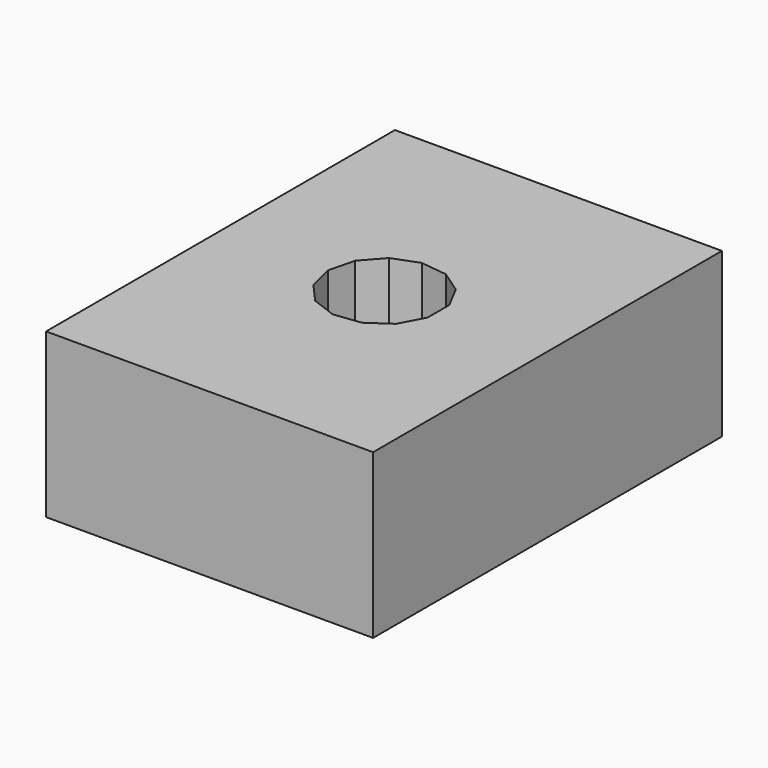
from build123d import *

# Parameters (mm, degrees)
F0_W     = 19.05
F0_H     = 25.4
F1_DEPTH = 9.525


with BuildPart() as f1:
    # F0 (on Top) → F1 (new body)
    with BuildSketch(Plane.XY):
        Rectangle(F0_W, F0_H)
        Polygon((2.447646, 2.168425), (3.175, 0.782567), (3.175, -0.782567), (2.447646, -2.168425), (1.159565, -3.057523), (-0.394157, -3.246179), (-1.857584, -2.691174), (-2.89546, -1.519654), (-3.270021, 0), (-2.89546, 1.519654), (-1.857584, 2.691174), (-0.394157, 3.246179), (1.159565, 3.057523), align=None, mode=Mode.SUBTRACT)
    extrude(amount=F1_DEPTH)


solid = f1.part
